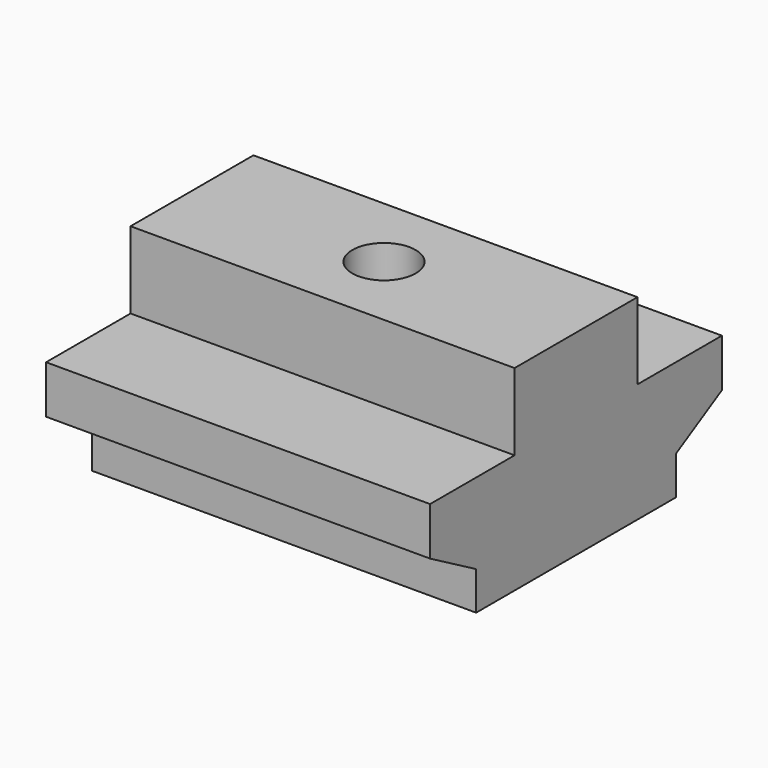
from build123d import *

# Parameters (mm, degrees)
PAD005_DEPTH    = 10
POCKET002_DEPTH = 4
SKETCH010_R     = 1.65
POCKET003_DEPTH = 6.201


with BuildPart() as part:
    # Sketch008 → Pad005 (new body, symmetric)
    with BuildSketch(Plane.YZ):
        Polygon((-6.5, 0), (-6.5, 2), (-9.5, 3.7), (-9.5, 6.2), (-4, 6.2), (-4, 10.2), (0, 10.2), (0, 0), align=None)
    pad005 = extrude(amount=PAD005_DEPTH, both=True)

    # Mirrored: Pad005 across Sketch008 V_Axis
    add(pad005.mirror(Plane(origin=(0, 0, 0), x_dir=(1, 0, 0), z_dir=(0, 1, 0))))

    # Sketch009 (on Face2 of Mirrored) → Pocket002 (cut)
    with BuildSketch(Plane.YX):
        Polygon((-1.732051, 3), (-3.464102, 0), (-1.732051, -3), (1.732051, -3), (3.464102, 0), (1.732051, 3), align=None)
    extrude(amount=-POCKET002_DEPTH, mode=Mode.SUBTRACT)

    # Sketch010 (on Face20 of Pocket002) → Pocket003 (cut, through all)
    with BuildSketch(Plane.YX.offset(-4)):
        Circle(SKETCH010_R)
    extrude(amount=-POCKET003_DEPTH, mode=Mode.SUBTRACT)


solid = part.part
